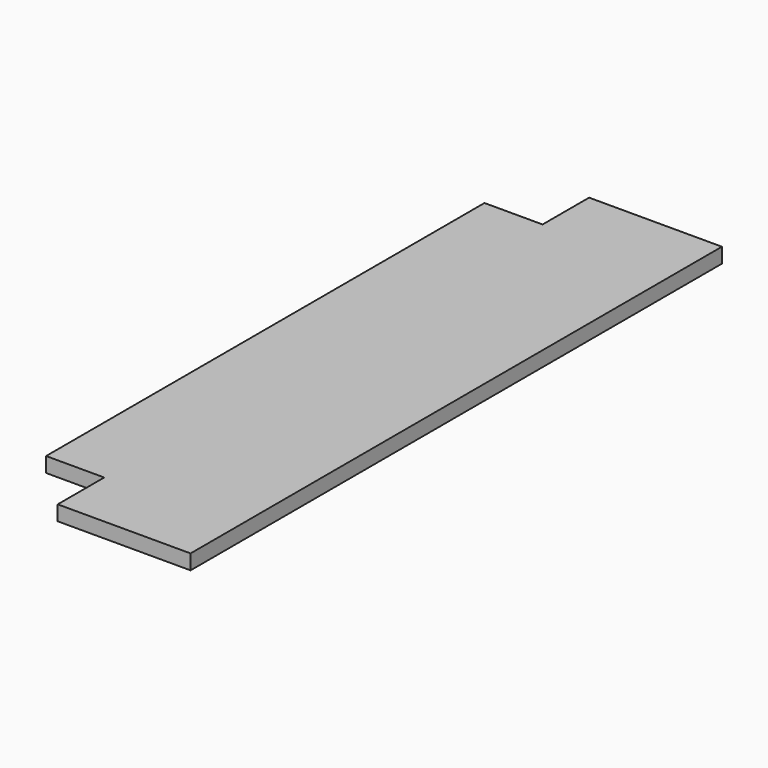
from build123d import *

# Parameters (mm, degrees)
F0_W     = 230
F0_H     = 18
F1_DEPTH = 800
F2_W     = 70
F2_H     = 70
F3_DEPTH = 18
F4_W     = 70
F4_H     = 70
F5_DEPTH = 18


with BuildPart() as f1:
    # F0 (on Front) → F1 (new body)
    with BuildSketch(Plane.XZ):
        with Locations((80.894645, 1.304673)):
            Rectangle(F0_W, F0_H)
    extrude(amount=-F1_DEPTH)

    # F2 (on face) → F3 (cut)
    with BuildSketch(Plane.XY.offset(10.304673)):
        with Locations((0.894645, 765)):
            Rectangle(F2_W, F2_H)
    extrude(amount=-F3_DEPTH, mode=Mode.SUBTRACT)

    # F4 (on face) → F5 (cut)
    with BuildSketch(Plane.XY.offset(10.304673)):
        with Locations((0.894645, 35)):
            Rectangle(F4_W, F4_H)
    extrude(amount=-F5_DEPTH, mode=Mode.SUBTRACT)


solid = f1.part
